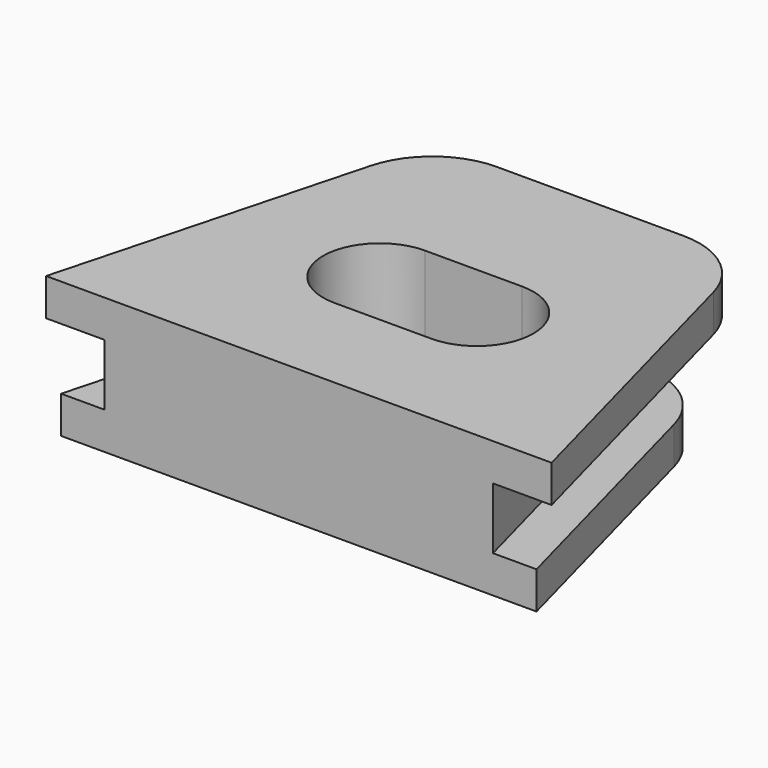
from build123d import *

# Parameters (mm, degrees)
F1_DEPTH = 4.826
F3_DEPTH = 2.921
F5_DEPTH = 2.921
F7_DEPTH = 25.4
F8_R     = 3.302
F9_R     = 6.35


with BuildPart() as f1:
    # F0 (on Top) → F1 (new body)
    with BuildSketch(Plane.XY):
        Polygon((-9.795272, 20.32), (-15.24, 0), (15.24, 0), (9.795272, 20.32), align=None)
    extrude(amount=F1_DEPTH)

    # F2 (on face) → F3 (join)
    with BuildSketch(Plane.XY.offset(4.826)):
        Polygon((-19.841803, 0), (19.841803, 0), (12.185154, 28.575), (-12.185154, 28.575), align=None)
    extrude(amount=F3_DEPTH)

    # F4 (on face) → F5 (join)
    with BuildSketch(Plane(origin=(0, 0, 0), x_dir=(1, 0, 0), z_dir=(0, 0, -1))):
        Polygon((18.658482, 0), (-18.658482, 0), (-11.954661, -25.019), (11.954661, -25.019), align=None)
    extrude(amount=F5_DEPTH)

    # F6 (on face) → F7 (cut)
    with BuildSketch(Plane(origin=(0, 0, -2.921), x_dir=(1, 0, 0), z_dir=(0, 0, -1))):
        with BuildLine():
            Line((3.81, -8.255), (-3.81, -8.255))
            ThreePointArc((-3.81, -8.255), (-8.255, -12.7), (-3.81, -17.145))
            Line((-3.81, -17.145), (3.81, -17.145))
            ThreePointArc((3.81, -17.145), (8.255, -12.7), (3.81, -8.255))
        make_face()
    extrude(amount=-F7_DEPTH, mode=Mode.SUBTRACT)

    # F8
    f8_edges = [f1.edges().sort_by_distance(p)[0] for p in [
        (9.795272, 20.32, 2.413),
        (-9.795272, 20.32, 2.413),
    ]]
    fillet(f8_edges, radius=F8_R)

    # F9
    f9_edges = [f1.edges().sort_by_distance(p)[0] for p in [
        (12.185154, 28.575, 6.2865),
        (-12.185154, 28.575, 6.2865),
        (11.954661, 25.019, -1.4605),
        (-11.954661, 25.019, -1.4605),
    ]]
    fillet(f9_edges, radius=F9_R)


solid = f1.part
